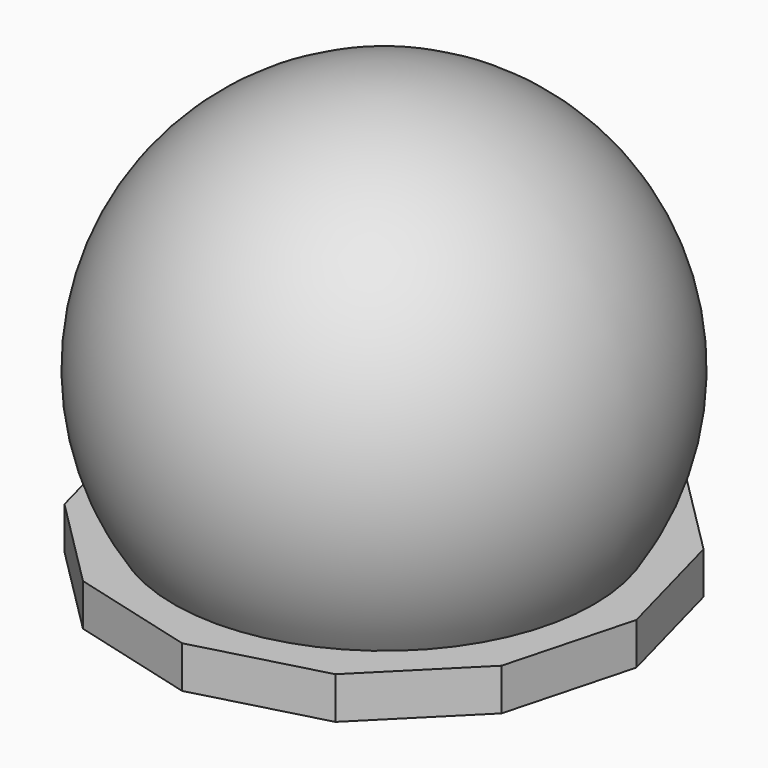
from build123d import *

# Parameters (mm, degrees)
F2_R     = 1524
F3_DEPTH = 914.4
F5_DEPTH = 203.2


with BuildPart() as f1:
    # F0 (on Front) → F1 (revolve)
    with BuildSketch(Plane.XZ):
        with BuildLine():
            Line((0, 1892.3), (0, -546.1))
            ThreePointArc((0, -546.1), (1219.2, 673.1), (0, 1892.3))
        make_face()
    revolve(axis=Axis((0, 0, 673.1), (0, 0, -1)))

    # F2 (on Top) → F3 (cut)
    with BuildSketch(Plane.XY):
        Circle(F2_R)
    extrude(amount=-F3_DEPTH, mode=Mode.SUBTRACT)

    # F4 (on face) → F5 (join)
    with BuildSketch(Plane(origin=(0, 0, 0), x_dir=(1, 0, 0), z_dir=(0, 0, -1))):
        Polygon((1221.314832, 0), (1057.689671, 610.657416), (610.657416, 1057.689671), (0, 1221.314832), (-610.657416, 1057.689671), (-1057.689671, 610.657416), (-1221.314832, 0), (-1057.689671, -610.657416), (-610.657416, -1057.689671), (0, -1221.314832), (610.657416, -1057.689671), (1057.689671, -610.657416), align=None)
    extrude(amount=F5_DEPTH)


solid = f1.part
